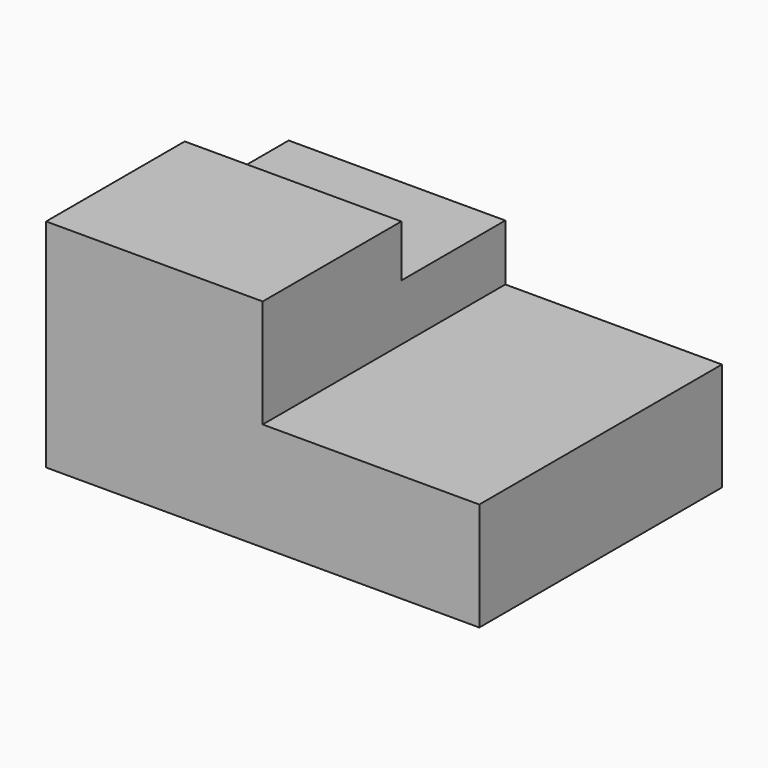
from build123d import *

# Parameters (mm, degrees)
F0_W     = 2540
F0_H     = 1778
F1_DEPTH = 1270
F2_W     = 1270
F2_H     = 635
F3_DEPTH = 3934.46
F4_W     = 762
F4_H     = 304.8
F5_DEPTH = 1610.36


with BuildPart() as f1:
    # F0 (on Top) → F1 (new body)
    with BuildSketch(Plane.XY):
        Rectangle(F0_W, F0_H)
    extrude(amount=F1_DEPTH)

    # F2 (on face) → F3 (cut)
    with BuildSketch(Plane.XZ.offset(889)):
        with Locations((635, 952.5)):
            Rectangle(F2_W, F2_H)
    extrude(amount=-F3_DEPTH, mode=Mode.SUBTRACT)

    # F4 (on face) → F5 (cut)
    with BuildSketch(Plane.YZ):
        with Locations((508, 1117.6)):
            Rectangle(F4_W, F4_H)
    extrude(amount=-F5_DEPTH, mode=Mode.SUBTRACT)


solid = f1.part
